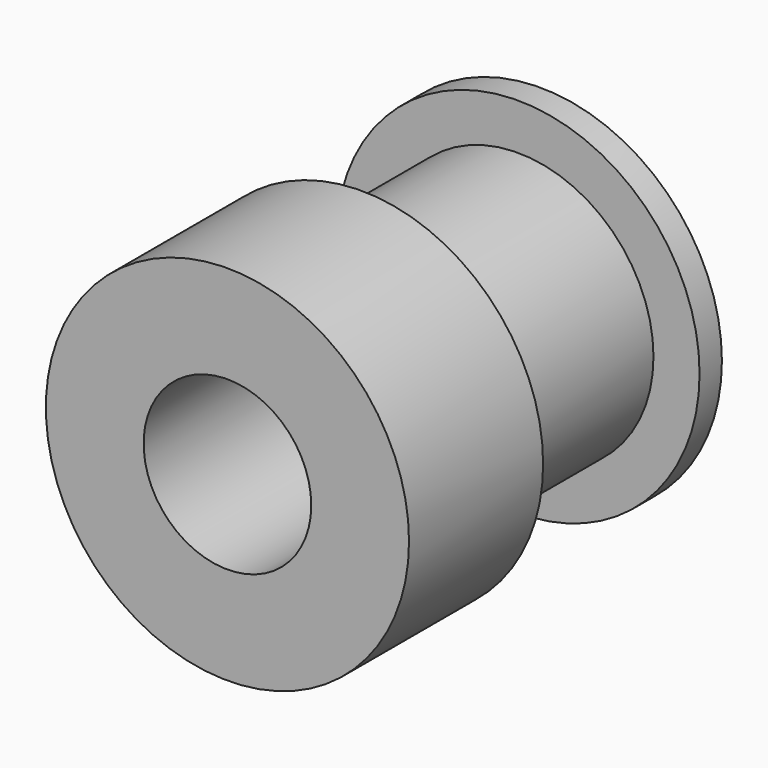
from build123d import *


with BuildPart() as part:
    # Sketch → Revolution (revolve)
    with BuildSketch(Plane.XY):
        Polygon((3, 0), (3, 14), (6.5, 14), (6.5, 13), (4.85, 13), (4.85, 6), (6.5, 6), (6.5, 0), align=None)
    revolve(axis=Axis((0, 0, 0), (0, 1, 0)))


solid = part.part
